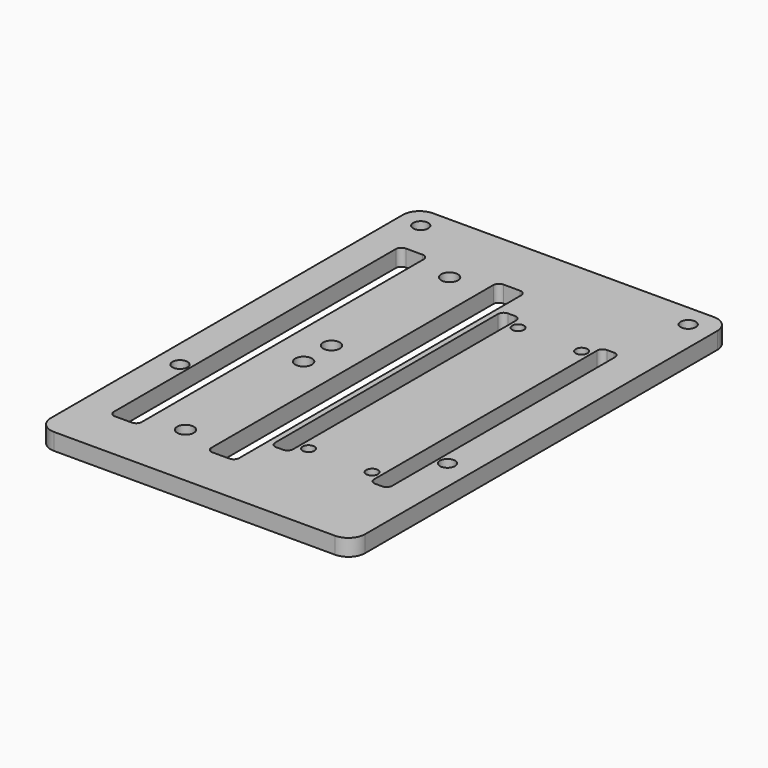
from build123d import *

# Parameters (mm, degrees)
SKETCH_R     = 1.5
SKETCH_R_2   = 1.05
SKETCH_W     = 5
SKETCH_H     = 65.250003
SKETCH_W_2   = 3.22
SKETCH_H_2   = 52
PAD_DEPTH    = 3
FILLET_R     = 3
FILLET001_R  = 1
FILLET002_R  = 1
FILLET003_R  = 1.5
SKETCH002_R  = 1.35
POCKET_DEPTH = 3.001


with BuildPart() as part:
    # Sketch → Pad (new body)
    with BuildSketch(Plane.XY):
        Polygon((-23.300015, -16.327643), (20.7, -16.327643), (26.907921, -16.327643), (26.907921, 68.672357), (-29.507937, 68.672357), (-29.507937, -16.327643), align=None)
        with Locations((-12.550021, 54.950004)):
            Circle(SKETCH_R, mode=Mode.SUBTRACT)
        with Locations((-12.550019, 28.450004)):
            Circle(SKETCH_R, mode=Mode.SUBTRACT)
        with Locations((-12.550018, 22.200001)):
            Circle(SKETCH_R, mode=Mode.SUBTRACT)
        with Locations((-12.550015, -4.299999)):
            Circle(SKETCH_R, mode=Mode.SUBTRACT)
        with Locations((4.5, 49)):
            Circle(SKETCH_R_2, mode=Mode.SUBTRACT)
        with Locations((15.9, 49)):
            Circle(SKETCH_R_2, mode=Mode.SUBTRACT)
        with Locations((4.5, 2)):
            Circle(SKETCH_R_2, mode=Mode.SUBTRACT)
        with Locations((15.9, 2)):
            Circle(SKETCH_R_2, mode=Mode.SUBTRACT)
        Polygon((-23.800022, 57.950004), (-23.800022, -7.299999), (-18.800021, -7.299999), (-18.800021, -6.799999), (-18.800021, 57.450004), (-18.800021, 57.950004), align=None, mode=Mode.SUBTRACT)
        with Locations((-3.800022, 25.325003)):
            Rectangle(SKETCH_W, SKETCH_H, mode=Mode.SUBTRACT)
        with Locations((1.31, 25.5)):
            Rectangle(SKETCH_W_2, SKETCH_H_2, mode=Mode.SUBTRACT)
        with Locations((19.09, 25.5)):
            Rectangle(SKETCH_W_2, SKETCH_H_2, mode=Mode.SUBTRACT)
    extrude(amount=-PAD_DEPTH)

    # Fillet
    fillet_edges = [part.edges().sort_by_distance(p)[0] for p in [
        (26.907921, -16.327643, -1.5),
        (-29.507937, -16.327643, -1.5),
        (-29.507937, 68.672357, -1.5),
        (26.907921, 68.672357, -1.5),
    ]]
    fillet(fillet_edges, radius=FILLET_R)

    # Fillet001
    fillet001_edges = [part.edges().sort_by_distance(p)[0] for p in [
        (-23.800022, -7.299999, -1.5),
        (-18.800021, -7.299999, -1.5),
        (-23.800022, 57.950004, -1.5),
        (-18.800021, 57.950004, -1.5),
        (-1.300022, 57.950004, -1.5),
        (-6.300022, 57.950004, -1.5),
        (-1.300022, -7.299999, -1.5),
        (-6.300022, -7.299999, -1.5),
        (-0.3, -0.5, -1.5),
        (2.92, -0.5, -1.5),
        (20.7, -0.5, -1.5),
        (17.48, -0.5, -1.5),
        (-0.3, 51.5, -1.5),
        (2.92, 51.5, -1.5),
        (20.7, 51.5, -1.5),
        (17.48, 51.5, -1.5),
    ]]
    fillet(fillet001_edges, radius=FILLET001_R)

    # Fillet002
    fillet002_edges = [part.edges().sort_by_distance(p)[0] for p in [
        (3.45, 49, -3),
        (14.85, 49, -3),
        (14.85, 2, -3),
        (3.45, 2, -3),
    ]]
    fillet(fillet002_edges, radius=FILLET002_R)

    # Fillet003
    fillet003_edges = [part.edges().sort_by_distance(p)[0] for p in [
        (-14.050015, -4.299999, -3),
        (-14.050018, 22.200001, -3),
        (-14.050019, 28.450004, -3),
        (-14.050021, 54.950004, -3),
    ]]
    fillet(fillet003_edges, radius=FILLET003_R)

    # Sketch002 (on Face3 of Fillet003) → Pocket (cut, through all)
    with BuildSketch(Plane.XY):
        with Locations((-25.507937, 10.672357)):
            Circle(SKETCH002_R)
        with Locations((22.492063, 10.672357)):
            Circle(SKETCH002_R)
        with Locations((22.492063, 64.672357)):
            Circle(SKETCH002_R)
        with Locations((-25.507937, 64.672357)):
            Circle(SKETCH002_R)
    extrude(amount=-POCKET_DEPTH, mode=Mode.SUBTRACT)


solid = part.part
